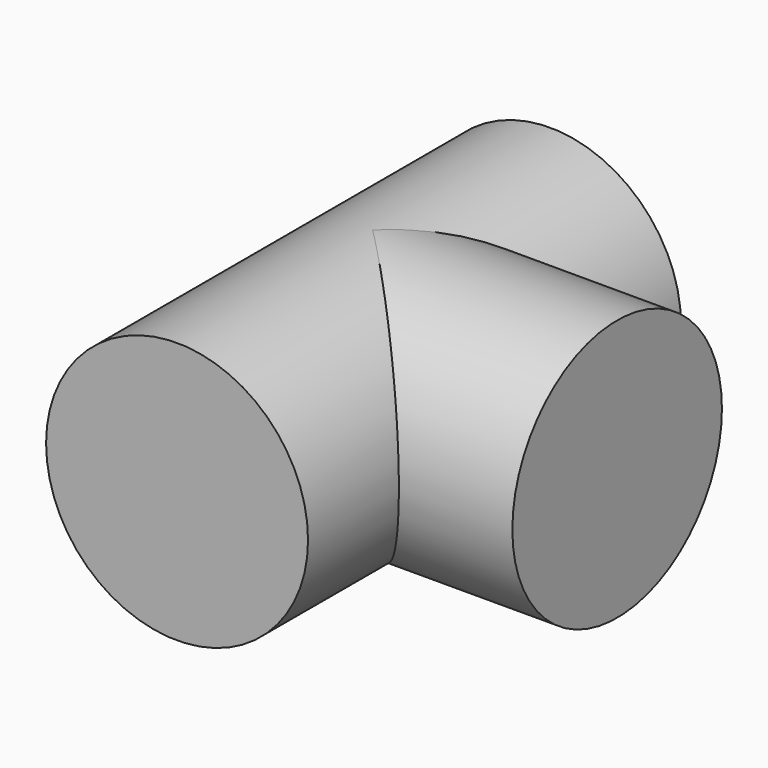
from build123d import *

# Parameters (mm, degrees)
F0_R      = 15
F1_DEPTH  = 28
F1_FACE_R = 15
F2_DEPTH  = 25.4
F3_R      = 15
F4_DEPTH  = 28


with BuildPart() as f1:
    # F0 (on Front) → F1 (new body)
    with BuildSketch(Plane.XZ):
        Circle(F0_R)
    extrude(amount=F1_DEPTH)

    # F1_face (on face) → F2 (join)
    with BuildSketch(Plane(origin=(0, 0, 0), x_dir=(1, 0, 0), z_dir=(0, 1, 0))):
        Circle(F1_FACE_R)
    extrude(amount=F2_DEPTH)

    # F3 (on Right) → F4 (join)
    with BuildSketch(Plane.YZ):
        Circle(F3_R)
    extrude(amount=F4_DEPTH)


solid = f1.part
